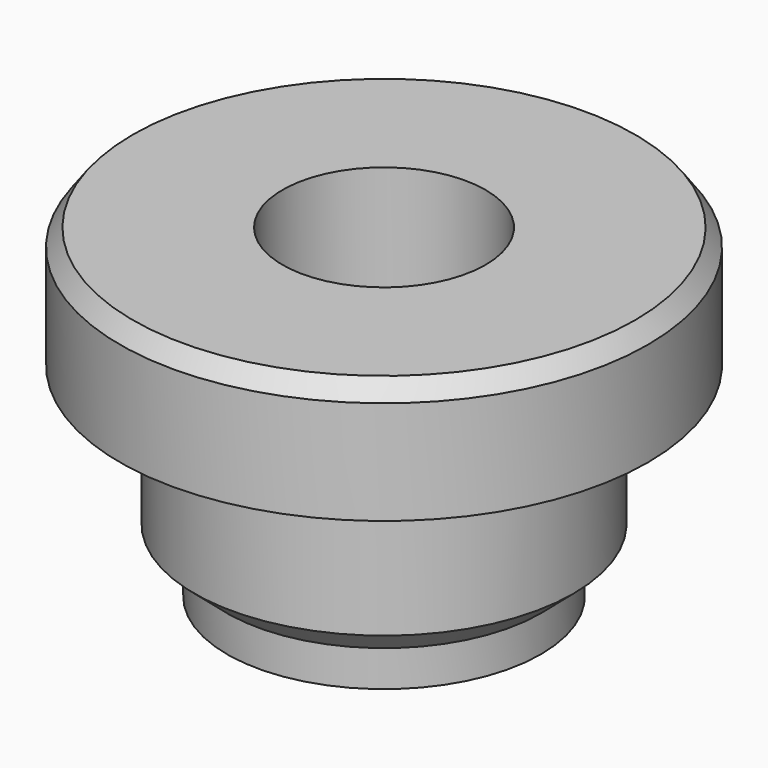
from build123d import *

# Parameters (mm, degrees)
F2_R     = 12.5
F3_DEPTH = 40.001


with BuildPart() as f1:
    # F0 (on Front) → F1 (revolve)
    with BuildSketch(Plane.XZ):
        Polygon((-19.310038, 0), (0, 0), (0, 4.444444), (4.014336, 7.885304), (4.014336, 25.089604), (13.189962, 25.089604), (13.189962, 37.849461), (11.612903, 40), (-19.310038, 40), align=None)
    revolve(axis=Axis((-19.310038, 0, 20), (0, 0, -1)))

    # F2 (on face) → F3 (cut, through all)
    with BuildSketch(Plane.XY.offset(40)):
        with Locations((-19.310038, 0)):
            Circle(F2_R)
    extrude(amount=-F3_DEPTH, mode=Mode.SUBTRACT)


solid = f1.part
